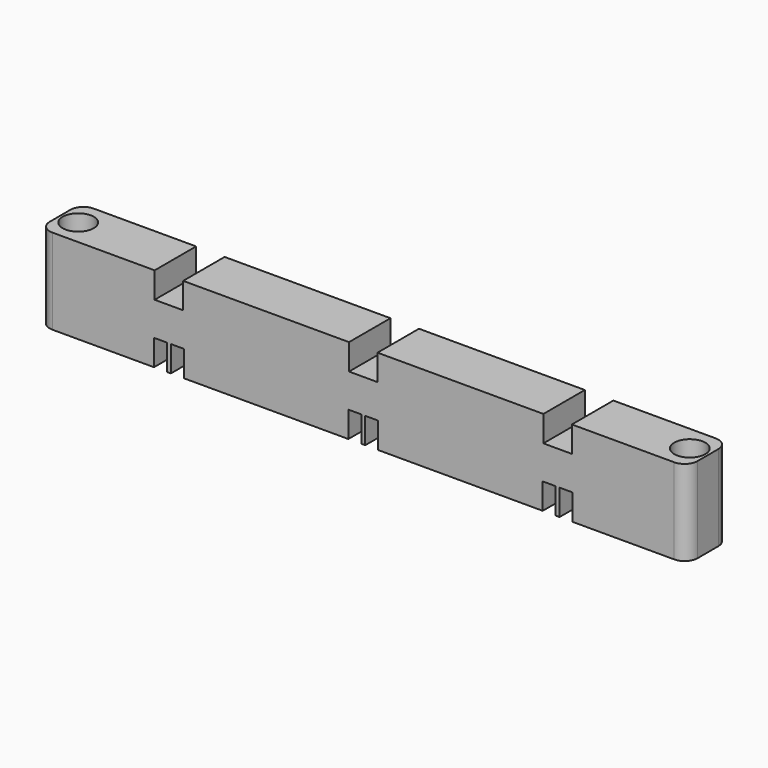
from build123d import *

# Parameters (mm, degrees)
F0_W      = 250
F0_H      = 33
F1_DEPTH  = 20
F2_W      = 11
F2_H      = 20
F4_DEPTH  = 10
F3_W      = 5
F3_H      = 20
F5_DEPTH  = 10
F6_R      = 5
F7_R      = 5
F8_R      = 5
F9_R      = 5
F10_R     = 6
F11_DEPTH = 33.001


with BuildPart() as f1:
    # F0 (on Front) → F1 (new body)
    with BuildSketch(Plane.XZ):
        Rectangle(F0_W, F0_H)
    extrude(amount=F1_DEPTH)

    # F2 (on face) → F4 (cut)
    with BuildSketch(Plane.XY.offset(16.5)):
        with Locations((-75, -10)):
            Rectangle(F2_W, F2_H)
        with Locations((0, -10)):
            Rectangle(F2_W, F2_H)
        with Locations((75, -10)):
            Rectangle(F2_W, F2_H)
    extrude(amount=-F4_DEPTH, mode=Mode.SUBTRACT)

    # F3 (on face) → F5 (cut)
    with BuildSketch(Plane(origin=(0, 0, -16.5), x_dir=(1, 0, 0), z_dir=(0, 0, -1))):
        with Locations((-78.25, 10)):
            Rectangle(F3_W, F3_H)
        with Locations((-71.75, 10)):
            Rectangle(F3_W, F3_H)
        with Locations((-3.25, 10)):
            Rectangle(F3_W, F3_H)
        with Locations((3.25, 10)):
            Rectangle(F3_W, F3_H)
        with Locations((71.75, 10)):
            Rectangle(F3_W, F3_H)
        with Locations((78.25, 10)):
            Rectangle(F3_W, F3_H)
    extrude(amount=-F5_DEPTH, mode=Mode.SUBTRACT)

    # F6
    f6_edges = [f1.edges().sort_by_distance(p)[0] for p in [
        (-125, -20, 0),
    ]]
    fillet(f6_edges, radius=F6_R)

    # F7
    f7_edges = [f1.edges().sort_by_distance(p)[0] for p in [
        (-125, 0, 0),
    ]]
    fillet(f7_edges, radius=F7_R)

    # F8
    f8_edges = [f1.edges().sort_by_distance(p)[0] for p in [
        (125, -20, 0),
    ]]
    fillet(f8_edges, radius=F8_R)

    # F9
    f9_edges = [f1.edges().sort_by_distance(p)[0] for p in [
        (125, 0, 0),
    ]]
    fillet(f9_edges, radius=F9_R)

    # F10 (on face) → F11 (cut, through all)
    with BuildSketch(Plane.XY.offset(16.5)):
        with Locations((118, -10)):
            Circle(F10_R)
        with Locations((-118, -10)):
            Circle(F10_R)
    extrude(amount=-F11_DEPTH, mode=Mode.SUBTRACT)


solid = f1.part
